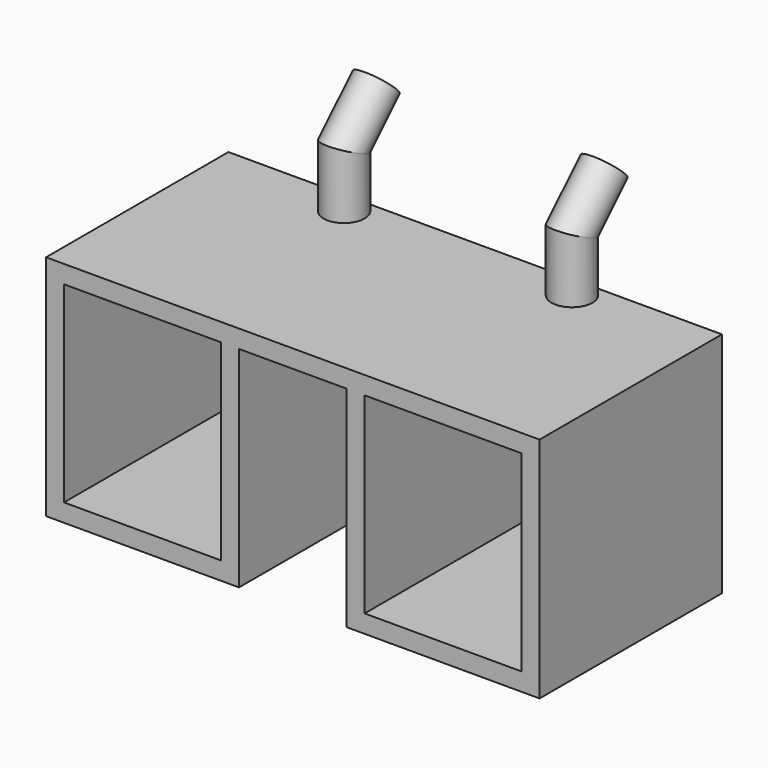
from build123d import *

# Parameters (mm, degrees)
F0_W      = 31.75
F0_H      = 9.525
F1_DEPTH  = 3.175
F4_R      = 2.286
F8_R      = 2.286
F10_W     = 55
F10_H     = 25.4
F11_DEPTH = 25.4
F12_W     = 17.5
F12_H     = 21.4
F12_W_2   = 12
F12_H_2   = 23.4
F13_DEPTH = 25.401


with BuildPart() as f1:
    # F0 (on Top) → F1 (new body)
    with BuildSketch(Plane.XY):
        with Locations((15.875, 4.7625)):
            Rectangle(F0_W, F0_H)
    extrude(amount=F1_DEPTH)

    # F5: sweep along a path in F3
    with BuildLine(Plane.YZ.offset(28.575)) as f5_path:
        Line((7.1374, 3.175), (7.1374, 9.525))
        Line((7.1374, 9.525), (11.6275280605, 14.0151280605))
    # F4 (on face) → F5 (sweep)
    with BuildSketch(Plane.XY.offset(3.175)):
        with Locations((28.575, 7.1374)):
            Circle(F4_R)
    sweep(path=f5_path.line, transition=Transition.RIGHT)

    # F9: sweep along a path in F7
    with BuildLine(Plane.YZ.offset(3.175)) as f9_path:
        Line((7.1374, 3.175), (7.1374, 9.525))
        Line((7.1374, 9.525), (11.6275280605, 14.0151280605))
    # F8 (on face) → F9 (sweep)
    with BuildSketch(Plane.XY.offset(3.175)):
        with Locations((3.175, 7.1374)):
            Circle(F8_R)
    sweep(path=f9_path.line, transition=Transition.RIGHT)

    # F10 (on face) → F11 (join)
    with BuildSketch(Plane.XY.offset(3.175)):
        with Locations((15.875, -3.175)):
            Rectangle(F10_W, F10_H)
    extrude(amount=-F11_DEPTH)

    # F12 (on face) → F13 (cut, through all)
    with BuildSketch(Plane(origin=(0, 9.525, 0), x_dir=(-1, 0, 0), z_dir=(0, 1, 0))):
        with Locations((-32.625, -9.525)):
            Rectangle(F12_W, F12_H)
        with Locations((-15.875, -10.525)):
            Rectangle(F12_W_2, F12_H_2)
        with Locations((0.875, -9.525)):
            Rectangle(F12_W, F12_H)
    extrude(amount=-F13_DEPTH, mode=Mode.SUBTRACT)


solid = f1.part
